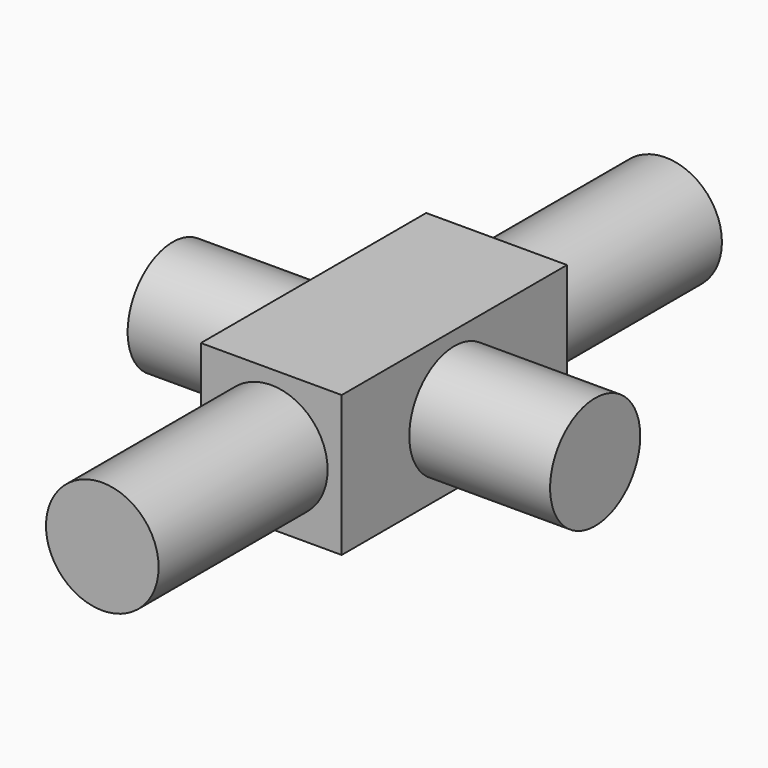
from build123d import *

# Parameters (mm, degrees)
F0_W     = 5
F0_H     = 10
F1_DEPTH = 2.5
F2_R     = 2
F3_DEPTH = 12.5
F4_R     = 2
F5_DEPTH = 7.5


with BuildPart() as f1:
    # F0 (on Top) → F1 (new body, symmetric)
    with BuildSketch(Plane.XY):
        Rectangle(F0_W, F0_H)
    extrude(amount=F1_DEPTH, both=True)

    # F2 (on Front) → F3 (join, symmetric)
    with BuildSketch(Plane.XZ):
        Circle(F2_R)
    extrude(amount=F3_DEPTH, both=True)

    # F4 (on Right) → F5 (join, symmetric)
    with BuildSketch(Plane.YZ):
        Circle(F4_R)
    extrude(amount=F5_DEPTH, both=True)


solid = f1.part
